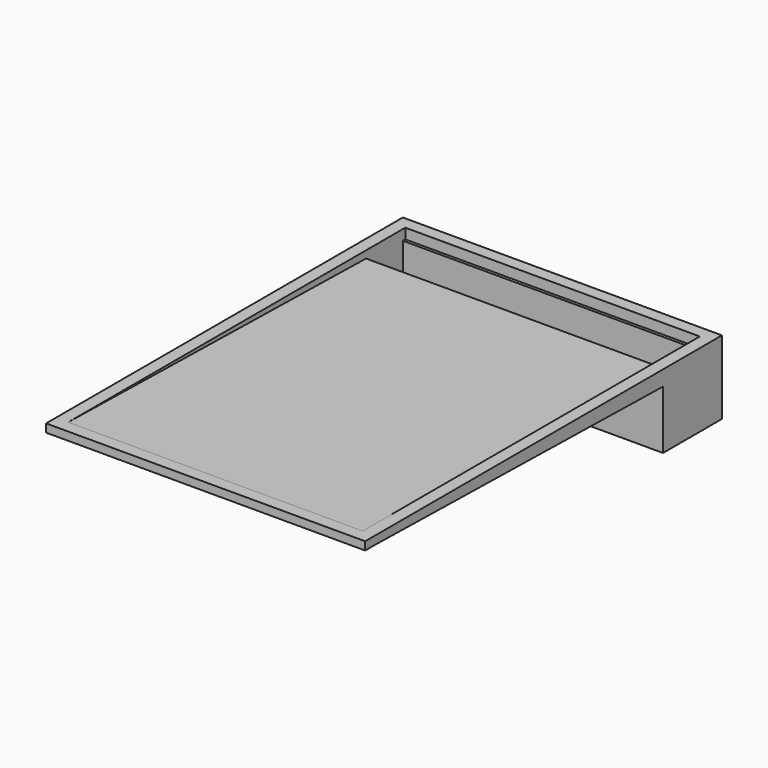
from build123d import *

# Parameters (mm, degrees)
F0_W          = 3962.4
F0_H          = 5384.8
F1_DEPTH      = 203.2
F4_DEPTH      = 1828.8
F5_DEPTH      = 152.401
F6_DEPTH      = 152.401
F3_W          = 914.4
F3_H          = 914.4
F7_DEPTH      = 3962.4
F8_DEPTH      = 1828.8
F8_DEPTH_BACK = 1828.8
F9_W          = 3657.6
F9_H          = 609.6
F10_DEPTH     = 812.8
F11_W         = 3657.6
F11_H         = 38.1
F12_DEPTH     = 684.9368932039
F13_R         = 57.15
F14_DEPTH     = 152.401
F15_DEPTH     = 152.4


with BuildPart() as f1:
    # F0 (on Top) → F1 (new body)
    with BuildSketch(Plane.XY):
        Rectangle(F0_W, F0_H)
    extrude(amount=F1_DEPTH)

    # F2 (on Right) → F4 (cut, symmetric)
    with BuildSketch(Plane.YZ):
        Polygon((2540, 203.2), (-2692.4, 203.2), (2540, 101.6), align=None)
        Polygon((2540, 0), (-2692.4, 101.6), (-2692.4, 0), align=None)
    extrude(amount=F4_DEPTH, both=True, mode=Mode.SUBTRACT)

    # F5 (cut, through all): a face of the model
    f5_faces = [f1.faces().sort_by_distance(p)[0] for p in [
        (-1828.8, -948.2666666667, 33.8666666667),
    ]]
    extrude(f5_faces, amount=-F5_DEPTH, mode=Mode.SUBTRACT)

    # F6 (cut, through all): a face of the model
    f6_faces = [f1.faces().sort_by_distance(p)[0] for p in [
        (1828.8, -948.2666666667, 33.8666666667),
    ]]
    extrude(f6_faces, amount=-F6_DEPTH, mode=Mode.SUBTRACT)

    # F3 (on face) → F7 (join, through all)
    with BuildSketch(Plane(origin=(-1981.2, 0, 0), x_dir=(0, -1, 0), z_dir=(-1, 0, 0))):
        with Locations((-2235.2, -254)):
            Rectangle(F3_W, F3_H)
    extrude(amount=-F7_DEPTH)

    # F2 (on Right) → F8 (cut, two sides)
    with BuildSketch(Plane.YZ) as f8_sk:
        Polygon((2540, 203.2), (-2692.4, 203.2), (2540, 101.6), align=None)
    extrude(amount=-F8_DEPTH, mode=Mode.SUBTRACT)
    extrude(f8_sk.sketch, amount=F8_DEPTH_BACK, mode=Mode.SUBTRACT)

    # F9 (on face) → F10 (cut, through all)
    with BuildSketch(Plane.XY.offset(203.2)):
        with Locations((0, 2235.2)):
            Rectangle(F9_W, F9_H)
    extrude(amount=-F10_DEPTH, mode=Mode.SUBTRACT)

    # F11 (on face) → F12 (join, through all)
    with BuildSketch(Plane.XY.offset(-609.6)):
        with Locations((0, 2520.95)):
            Rectangle(F11_W, F11_H)
        with Locations((0, 1949.45)):
            Rectangle(F11_W, F11_H)
    extrude(amount=F12_DEPTH)

    # F13 (on face) → F14 (cut, through all)
    with BuildSketch(Plane.YZ.offset(-1828.8)):
        with Locations((2235.2, -552.45)):
            Circle(F13_R)
    extrude(amount=-F14_DEPTH, mode=Mode.SUBTRACT)

    # F15 (add): a face of the model
    f15_faces = [f1.faces().sort_by_distance(p)[0] for p in [
        (0, -2692.4, 152.4),
    ]]
    extrude(f15_faces, amount=F15_DEPTH)


solid = f1.part
